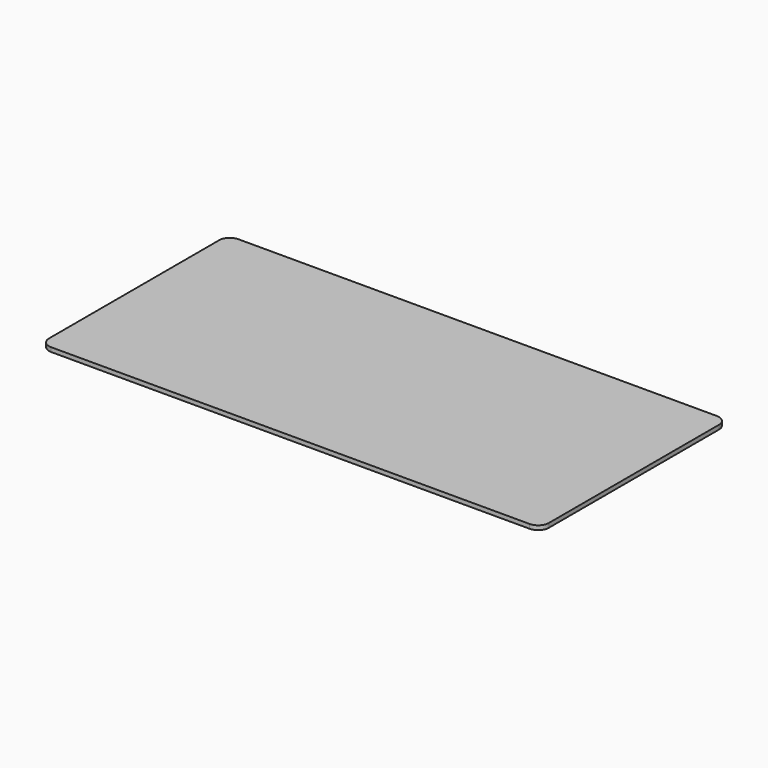
from build123d import *

# Parameters (mm, degrees)
SKETCH001_W  = 470
SKETCH001_H  = 220
PAD001_DEPTH = 4
FILLET006_R  = 10
FILLET004_R  = 10
FILLET005_R  = 10
FILLET007_R  = 10


with BuildPart() as part:
    # Sketch001 → Pad001 (new body)
    with BuildSketch(Plane.XY):
        with Locations((113.290486, 6.298135)):
            Rectangle(SKETCH001_W, SKETCH001_H)
    extrude(amount=PAD001_DEPTH)

    # Fillet006
    fillet006_edges = [part.edges().sort_by_distance(p)[0] for p in [
        (348.290486, -103.701865, 2),
    ]]
    fillet(fillet006_edges, radius=FILLET006_R)

    # Fillet004
    fillet004_edges = [part.edges().sort_by_distance(p)[0] for p in [
        (348.290486, 116.298135, 2),
    ]]
    fillet(fillet004_edges, radius=FILLET004_R)

    # Fillet005
    fillet005_edges = [part.edges().sort_by_distance(p)[0] for p in [
        (-121.709514, -103.701865, 2),
    ]]
    fillet(fillet005_edges, radius=FILLET005_R)

    # Fillet007
    fillet007_edges = [part.edges().sort_by_distance(p)[0] for p in [
        (-121.709514, 116.298135, 2),
    ]]
    fillet(fillet007_edges, radius=FILLET007_R)


with BuildPart() as part_1:
    # Body001 placement: moved
    add(part.part.moved(Location((-197, -0.5, -20))))


solid = part_1.part
